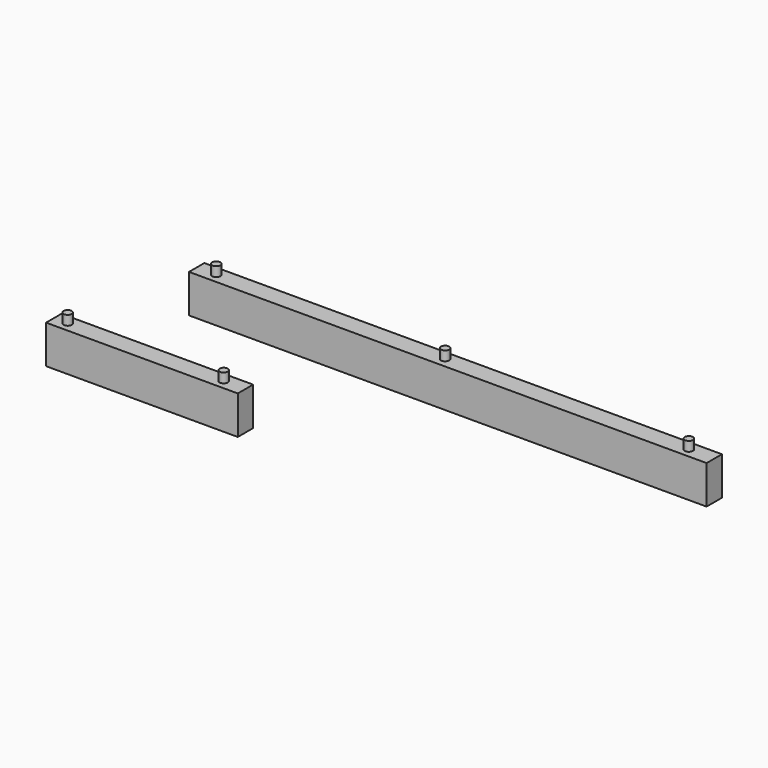
from build123d import *

# Parameters (mm, degrees)
F0_W      = 100
F0_H      = 10
F1_DEPTH  = 20
F2_W      = 70
F2_H      = 10
F3_DEPTH  = 30
F5_W      = 270
F5_H      = 10
F6_DEPTH  = 20
F7_R      = 2.15
F8_DEPTH  = 5
F9_R      = 2.15
F10_DEPTH = 5


with BuildPart() as f1:
    # F0 (on Top) → F1 (new body)
    with BuildSketch(Plane.XY):
        with Locations((-22.619004, -23.756767)):
            Rectangle(F0_W, F0_H)
    extrude(amount=F1_DEPTH)

    # F9 (on face) → F10 (join)
    with BuildSketch(Plane.XY.offset(20)):
        with Locations((-65.371044, -23.756767)):
            Circle(F9_R)
        with Locations((16.041975, -23.756767)):
            Circle(F9_R)
    extrude(amount=F10_DEPTH)


with BuildPart() as f3:
    # F2 (on Top) → F3 (new body)
    with BuildSketch(Plane.XY):
        with Locations((13.338088, 48.500318)):
            Rectangle(F2_W, F2_H)
    extrude(amount=F3_DEPTH)


with BuildPart() as f6:
    # F5 (on Top) → F6 (new body)
    with BuildSketch(Plane.XY):
        with Locations((79.873461, 47.569796)):
            Rectangle(F5_W, F5_H)
    extrude(amount=F6_DEPTH)

    # F7 (on face) → F8 (join)
    with BuildSketch(Plane.XY.offset(20)):
        with Locations((-44.905502, 47.569796)):
            Circle(F7_R)
        with Locations((74.304961, 47.768731)):
            Circle(F7_R)
        with Locations((201.688245, 47.486909)):
            Circle(F7_R)
    extrude(amount=F8_DEPTH)


with BuildPart() as f11_1:
    # F11: copy of F1
    add(f1.part)


solid = Compound([f1.part, f6.part, f11_1.part])
